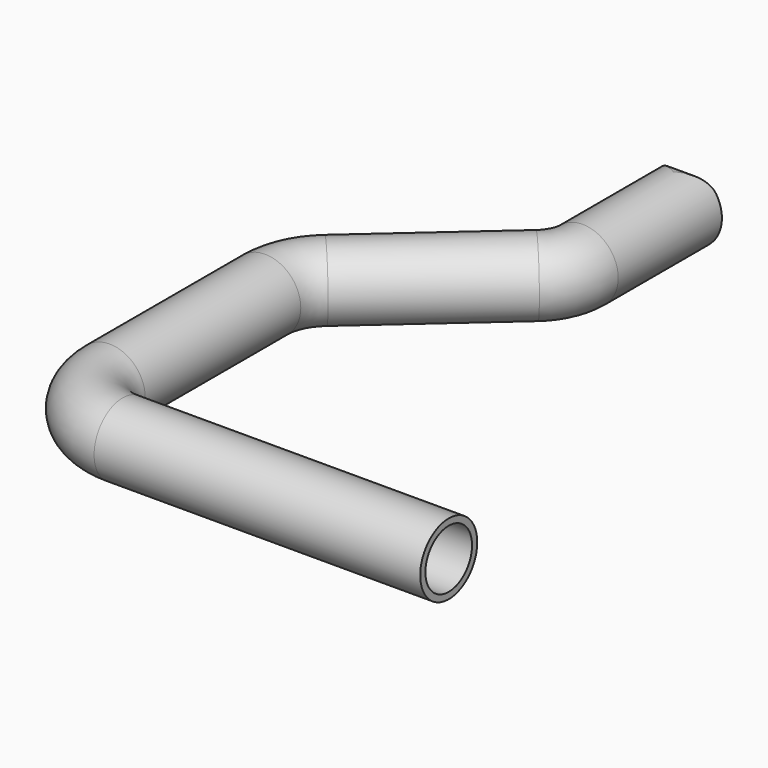
from build123d import *

# Parameters (mm, degrees)
F0_R     = 11
F0_R_2   = 9
F4_DEPTH = 25


with BuildPart() as f2:
    # F2: sweep along a path in F1
    with BuildLine(Plane.XY) as f2_path:
        Line((0, 0), (0, -40))
        ThreePointArc((0, -40), (-1.3236876013, -46.1610452986), (-5.0611305563, -51.2347173609))
        Line((-5.0611305563, -51.2347173609), (-43.251825925, -85.0203768521))
        ThreePointArc((-43.251825925, -85.0203768521), (-48.2350831983, -91.7852729351), (-50, -100))
        Line((-50, -100), (-50, -160))
        ThreePointArc((-50, -160), (-44.1421356237, -174.1421356237), (-30, -180))
        Line((-30, -180), (70.6647652388, -180))
    # F0 (on Front) → F2 (sweep)
    with BuildSketch(Plane.XZ):
        Circle(F0_R)
        Circle(F0_R_2, mode=Mode.SUBTRACT)
    sweep(path=f2_path.line)

    # F3 (on Right) → F4 (cut, symmetric)
    with BuildSketch(Plane.YZ):
        with BuildLine():
            Line((0, 6), (0, 0))
            Line((0, 0), (9.8131904379, 0))
            Line((9.8131904379, 0), (9.8131904379, 17.0113388449))
            Line((9.8131904379, 17.0113388449), (-6.2809404917, 17.0113388449))
            Line((-6.2809404917, 17.0113388449), (-6.2809404917, 11))
            Line((-6.2809404917, 11), (-5, 11))
            ThreePointArc((-5, 11), (-1.4644660941, 9.5355339059), (0, 6))
        make_face()
        with BuildLine():
            Line((9.8131904379, 0), (0, 0))
            Line((0, 0), (0, -6))
            ThreePointArc((0, -6), (-1.4644660941, -9.5355339059), (-5, -11))
            Line((-5, -11), (-6.2809404917, -11))
            Line((-6.2809404917, -11), (-6.2809404917, -17.0113388449))
            Line((-6.2809404917, -17.0113388449), (9.8131904379, -17.0113388449))
            Line((9.8131904379, -17.0113388449), (9.8131904379, 0))
        make_face()
    extrude(amount=F4_DEPTH, both=True, mode=Mode.SUBTRACT)


solid = f2.part
